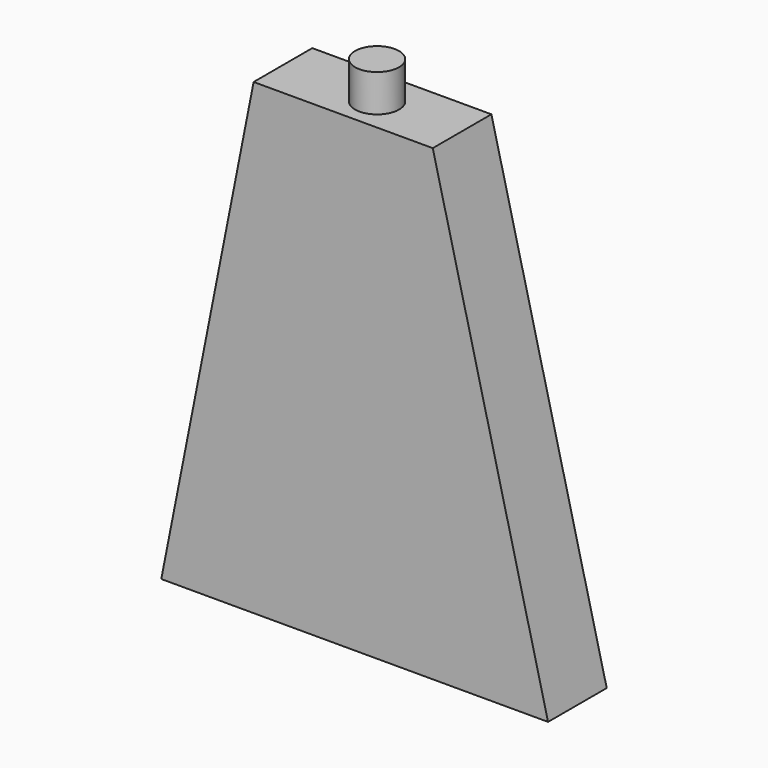
from build123d import *

# Parameters (mm, degrees)
F1_DEPTH = 7.86
F3_DEPTH = 25.4
F4_R     = 2.35837
F5_DEPTH = 4
F6_W     = 36.480802
F6_H     = 3.986974
F7_DEPTH = 7


with BuildPart() as f1:
    # F0 (on Front) → F1 (new body)
    with BuildSketch(Plane.XZ):
        Polygon((5.895124, 32.963499), (-8.975978, 32.963499), (-21.356635, -17.178163), (20.118568, -17.178163), align=None)
        Polygon((-8.975978, 32.963499), (-21.356635, 32.963499), (-21.356635, -17.178163), align=None)
        Polygon((20.118568, 32.963499), (5.895124, 32.963499), (20.118568, -17.178163), align=None)
    extrude(amount=F1_DEPTH)

    # F2 (on face) → F3 (cut)
    with BuildSketch(Plane.XZ.offset(7.86)):
        Polygon((-21.356635, 32.963499), (-21.356635, -17.178163), (-11.454494, 32.963499), align=None)
        Polygon((7.754011, 32.963499), (20.118568, -17.178163), (20.118568, 32.963499), align=None)
    extrude(amount=-F3_DEPTH, mode=Mode.SUBTRACT)

    # F4 (on face) → F5 (join)
    with BuildSketch(Plane.XY.offset(32.963499)):
        with Locations((-1.175593, -4.163687)):
            Circle(F4_R)
    extrude(amount=F5_DEPTH)

    # F6 (on face) → F7 (cut)
    with BuildSketch(Plane(origin=(0, 0, -17.178163), x_dir=(1, 0, 0), z_dir=(0, 0, -1))):
        with Locations((-0.981017, 4.267381)):
            Rectangle(F6_W, F6_H)
    extrude(amount=-F7_DEPTH, mode=Mode.SUBTRACT)


solid = f1.part
